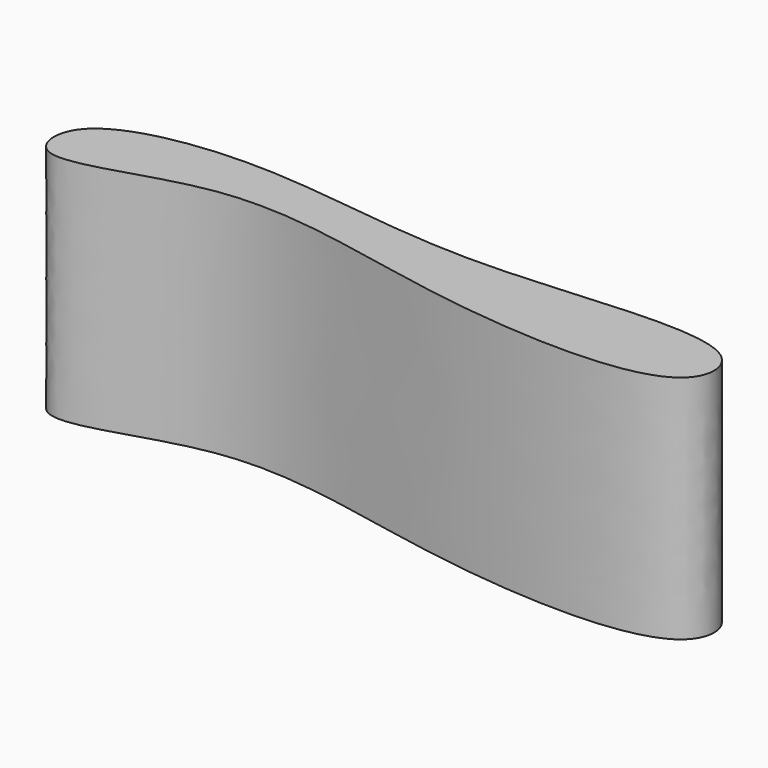
from build123d import *

# Parameters (mm, degrees)
F1_DEPTH = 25.4


with BuildPart() as f1:
    # F0 (on Top) → F1 (new body)
    with BuildSketch(Plane.XY):
        with BuildLine():
            add(Edge.make_bspline(
                [(-64.8312568665, 7.9752737656), (-62.7086988233, 11.0920042347), (-46.8434367223, 13.9967363181), (-24.6831456681, 8.0415526225), (6.1489111174, 13.7819759278), (6.7173373439, 0.9542371843), (-23.4591599737, 2.2893206381), (-46.4662433216, 9.9426069206), (-65.2675843487, 0.0485080013), (-65.9663773412, 6.3084809158), (-64.8312568665, 7.9752737656)],
                knots=[0, 0, 0, 0, 0.1215534195, 0.2775583468, 0.4340946616, 0.5024491697, 0.6560549406, 0.8145552141, 0.9349945809, 1, 1, 1, 1], degree=3))
        make_face()
    extrude(amount=F1_DEPTH)


solid = f1.part
